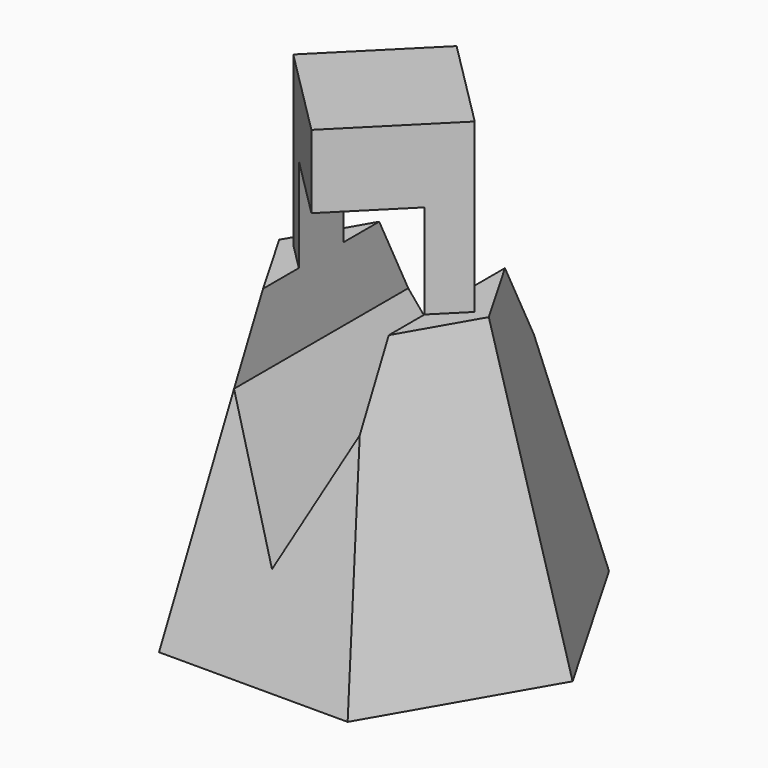
from build123d import *

# Parameters (mm, degrees)
F5_DEPTH = 1016
F7_DEPTH = 1188.72


with BuildPart() as f3:
    # F0 (on Top) → F3 section 0
    with BuildSketch(Plane.XY):
        Polygon((-571.5, 989.867037), (-1143, 0), (-571.5, -989.867037), (571.5, -989.867037), (1143, 0), (571.5, 989.867037), align=None)
    # F2 (on offset) → F3 section 1
    with BuildSketch(Plane.XY.offset(1778)):
        Polygon((317.5, -549.926131), (635, 0), (317.5, 549.926131), (-317.5, 549.926131), (-635, 0), (-317.5, -549.926131), align=None)
    loft()

    # F4 (on face) → F5 (join)
    with BuildSketch(Plane.XY.offset(1778)):
        Polygon((0, -549.926131), (549.926131, 0), (0, 549.926131), (-549.926131, 0), align=None)
    extrude(amount=F5_DEPTH)

    # F6 (on Front) → F7 (cut, symmetric)
    with BuildSketch(Plane.XZ):
        Polygon((-381, 2349.5), (-381, 1333.5), (0, 571.5), (381, 1333.5), (381, 2349.5), align=None)
    extrude(amount=F7_DEPTH, both=True, mode=Mode.SUBTRACT)


solid = f3.part
